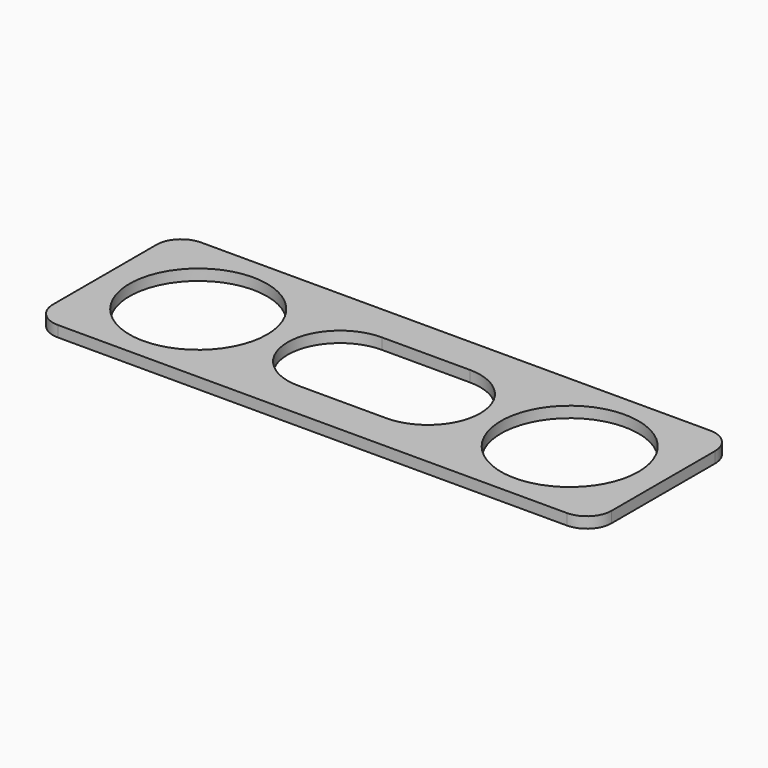
from build123d import *

# Parameters (mm, degrees)
F0_R     = 25
F1_DEPTH = 4


with BuildPart() as f1:
    # F0 (on Top) → F1 (new body)
    with BuildSketch(Plane.XY):
        with BuildLine():
            Line((-92.5, -32.5), (92.5, -32.5))
            ThreePointArc((92.5, -32.5), (98.863961, -29.863961), (101.5, -23.5))
            Line((101.5, -23.5), (101.5, 23.5))
            ThreePointArc((101.5, 23.5), (98.863961, 29.863961), (92.5, 32.5))
            Line((92.5, 32.5), (-92.5, 32.5))
            ThreePointArc((-92.5, 32.5), (-98.863961, 29.863961), (-101.5, 23.5))
            Line((-101.5, 23.5), (-101.5, -23.5))
            ThreePointArc((-101.5, -23.5), (-98.863961, -29.863961), (-92.5, -32.5))
        make_face()
        with Locations((-67.5, 0)):
            Circle(F0_R, mode=Mode.SUBTRACT)
        with BuildLine():
            Line((16, -19), (-16, -19))
            ThreePointArc((-16, -19), (-35, 0), (-16, 19))
            Line((-16, 19), (16, 19))
            ThreePointArc((16, 19), (35, 0), (16, -19))
        make_face(mode=Mode.SUBTRACT)
        with Locations((67.5, 0)):
            Circle(F0_R, mode=Mode.SUBTRACT)
    extrude(amount=F1_DEPTH)


solid = f1.part
